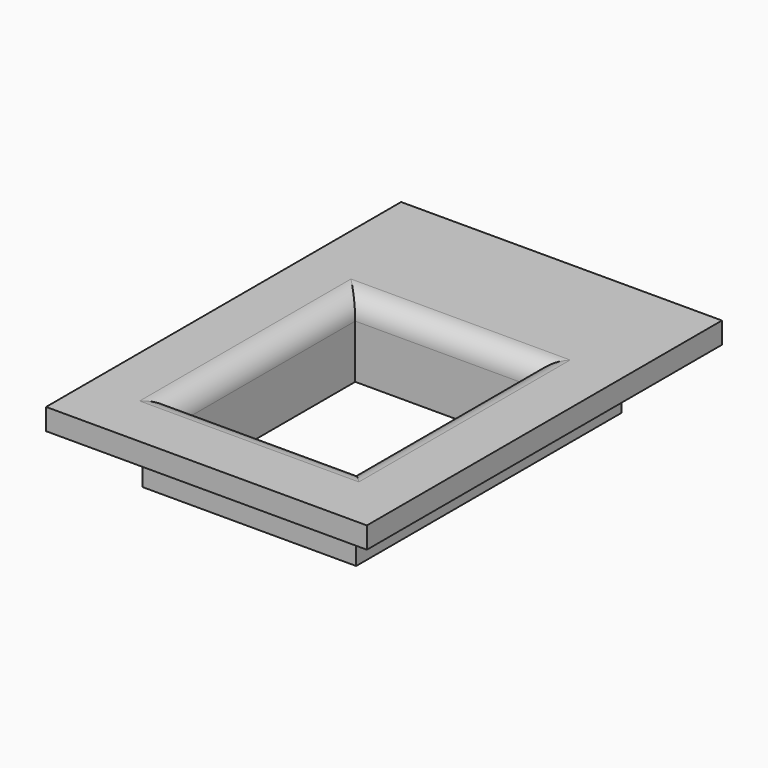
from build123d import *

# Parameters (mm, degrees)
F0_W     = 30
F0_H     = 41.5
F1_DEPTH = 2
F2_W     = 20
F2_H     = 31
F3_DEPTH = 5
F4_W     = 16.5
F4_H     = 20.7
F5_DEPTH = 25
F6_R     = 2


with BuildPart() as f1:
    # F0 (on Top) → F1 (new body)
    with BuildSketch(Plane.XY):
        with Locations((0.211424, -1.432606)):
            Rectangle(F0_W, F0_H)
    extrude(amount=F1_DEPTH)

    # F2 (on face) → F3 (join)
    with BuildSketch(Plane(origin=(0, 0, 0), x_dir=(1, 0, 0), z_dir=(0, 0, -1))):
        with Locations((0.211424, 1.682606)):
            Rectangle(F2_W, F2_H)
    extrude(amount=F3_DEPTH)

    # F4 (on face) → F5 (cut)
    with BuildSketch(Plane(origin=(0, 0, -5), x_dir=(1, 0, 0), z_dir=(0, 0, -1))):
        with Locations((0.211424, 4.832606)):
            Rectangle(F4_W, F4_H)
    extrude(amount=-F5_DEPTH, mode=Mode.SUBTRACT)

    # F6
    f6_edges = [f1.edges().sort_by_distance(p)[0] for p in [
        (8.461424, -4.832606, 2),
        (0.211424, 5.517394, 2),
        (-8.038576, -4.832606, 2),
        (0.211424, -15.182606, 2),
    ]]
    fillet(f6_edges, radius=F6_R)


solid = f1.part
